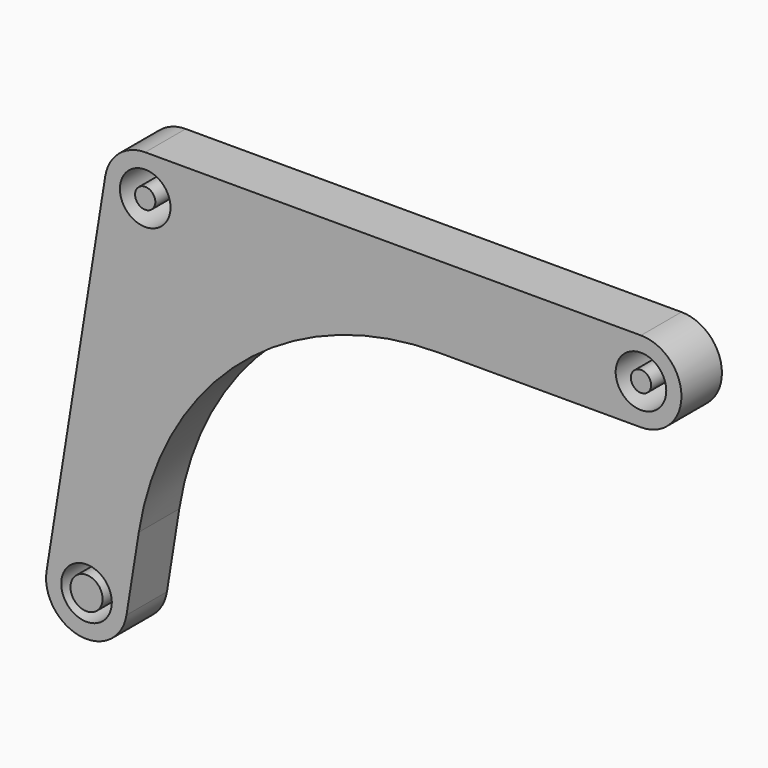
from build123d import *

# Parameters (mm, degrees)
F0_R     = 2.5
F1_DEPTH = 5
F2_R     = 1
F2_R_2   = 1.584808
F3_DEPTH = 5


with BuildPart() as f1:
    # F0 (on Front) → F1 (new body)
    with BuildSketch(Plane.XZ):
        with BuildLine():
            Line((49, 4), (0, 4))
            ThreePointArc((0, 4), (-2.59533, 3.043725), (-3.949735, 0.632132))
            Line((-3.949735, 0.632132), (-9.749735, -35.607868))
            ThreePointArc((-9.749735, -35.607868), (-6.432132, -40.189735), (-1.850265, -36.872132))
            Line((-1.850265, -36.872132), (-0.631829, -29.25901))
            ThreePointArc((-0.631829, -29.25901), (9.526214, -11.17206), (28.991186, -4))
            Line((28.991186, -4), (49, -4))
            ThreePointArc((49, -4), (53, 0), (49, 4))
        make_face()
        with Locations((-5.8, -36.24)):
            Circle(F0_R, mode=Mode.SUBTRACT)
        Circle(F0_R, mode=Mode.SUBTRACT)
        with Locations((49, 0)):
            Circle(F0_R, mode=Mode.SUBTRACT)
    extrude(amount=F1_DEPTH)


with BuildPart() as f3:
    # F2 (on Front) → F3 (new body)
    with BuildSketch(Plane.XZ):
        Circle(F2_R)
        with Locations((-5.8, -36.24)):
            Circle(F2_R_2)
        with Locations((49, 0)):
            Circle(F2_R)
    extrude(amount=F3_DEPTH)


solid = Compound([f1.part, f3.part])
